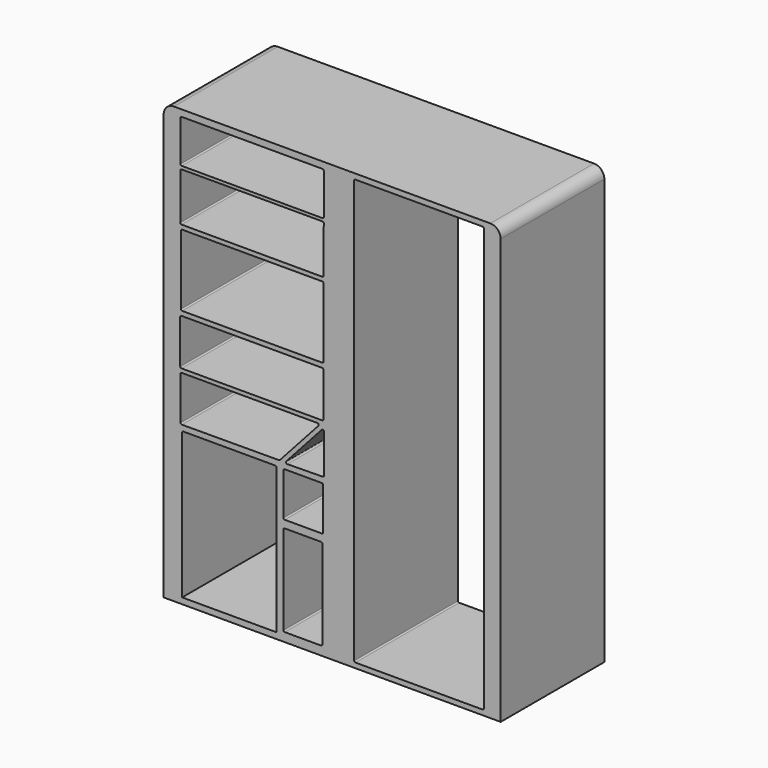
from build123d import *

# Parameters (mm, degrees)
F0_W     = 219.9670784175
F0_H     = 257.1922540665
F0_H_2   = 477.1593213081
F0_W_2   = 720.8151631057
F0_H_3   = 247.0399104059
F0_H_4   = 372.2520321608
F1_DEPTH = 635


with BuildPart() as f1:
    # F0 (on Front) → F1 (new body)
    with BuildSketch(Plane.XZ):
        with BuildLine():
            Line((-825.5, -1066.8), (825.5, -1066.8))
            Line((825.5, -1066.8), (825.5, 1016))
            ThreePointArc((825.5, 1016), (810.6210244843, 1051.9210244843), (774.7, 1066.8))
            Line((774.7, 1066.8), (-774.7, 1066.8))
            ThreePointArc((-774.7, 1066.8), (-810.6210244843, 1051.9210244843), (-825.5, 1016))
            Line((-825.5, 1016), (-825.5, -1066.8))
        make_face()
        with BuildLine():
            ThreePointArc((107.7734987259, 1034.2634128571), (109.6333706654, 1038.7535409176), (114.1234987259, 1040.6134128571))
            Line((114.1234987259, 1040.6134128571), (736.4234987259, 1040.6134128571))
            ThreePointArc((736.4234987259, 1040.6134128571), (740.9136267864, 1038.7535409176), (742.7734987259, 1034.2634128571))
            Line((742.7734987259, 1034.2634128571), (742.7734987259, -1035.8365871429))
            ThreePointArc((742.7734987259, -1035.8365871429), (740.9136267864, -1040.3267152035), (736.4234987259, -1042.1865871429))
            Line((736.4234987259, -1042.1865871429), (114.1234987259, -1042.1865871429))
            ThreePointArc((114.1234987259, -1042.1865871429), (109.6333706654, -1040.3267152035), (107.7734987259, -1035.8365871429))
            Line((107.7734987259, -1035.8365871429), (107.7734987259, 1034.2634128571))
        make_face(mode=Mode.SUBTRACT)
        Polygon((-787.4, -1037.2292995453), (-787.4, 1045.5707004547), (-752.9641985893, 1045.5707004547), (-32.1490354836, 1045.5707004547), (0, 1045.5707004547), (0, -1037.2292995453), (-32.1490354836, -1037.2292995453), (-252.1161139011, -1037.2292995453), (-272.5006639957, -1037.2292995453), (-734.9091768265, -1037.2292995453), (-752.9641985893, -1037.2292995453), align=None, mode=Mode.SUBTRACT)
        Polygon((-752.9641985893, 1045.5707004547), (-787.4, 1045.5707004547), (-787.4, -1037.2292995453), (-752.9641985893, -1037.2292995453), (-752.9641985893, -302.8777241707), (-752.9641985893, -59.2219047248), (-752.9641985893, 187.818005681), (-752.9641985893, 560.0700378418), (-752.9641985893, 593.9111113548), (-752.9641985893, 780.0370454788), (-752.9641985893, 813.8781785965), (-752.9641985893, 854.4874191284), (-752.9641985893, 1016.9246196747), align=None)
        with BuildLine():
            Line((-752.9641985893, -302.8777241707), (-752.9641985893, -1037.2292995453))
            Line((-752.9641985893, -1037.2292995453), (-734.9091768265, -1037.2292995453))
            Line((-734.9091768265, -1037.2292995453), (-734.9091768265, -326.3940406799))
            ThreePointArc((-734.9091768265, -326.3940406799), (-733.049304887, -321.9039126194), (-728.5591768265, -320.0440406799))
            Line((-728.5591768265, -320.0440406799), (-278.8506639957, -320.0440406799))
            ThreePointArc((-278.8506639957, -320.0440406799), (-274.3605359352, -321.9039126194), (-272.5006639957, -326.3940406799))
            Line((-272.5006639957, -326.3940406799), (-272.5006639957, -1037.2292995453))
            Line((-272.5006639957, -1037.2292995453), (-252.1161139011, -1037.2292995453))
            Line((-252.1161139011, -1037.2292995453), (-252.1161139011, -560.0699782372))
            Line((-252.1161139011, -560.0699782372), (-252.1161139011, -302.8777241707))
            Line((-252.1161139011, -302.8777241707), (-752.9641985893, -302.8777241707))
        make_face()
        with Locations((-142.1325746924, -431.4738512039)):
            Rectangle(F0_W, F0_H)
        with BuildLine():
            ThreePointArc((-238.722667098, -327.5587750435), (-236.8627951586, -323.068646983), (-232.372667098, -321.2087750435))
            Line((-232.372667098, -321.2087750435), (-50.5582434893, -321.2087750435))
            ThreePointArc((-50.5582434893, -321.2087750435), (-46.0681154287, -323.068646983), (-44.2082434893, -327.5587750435))
            Line((-44.2082434893, -327.5587750435), (-44.2082434893, -532.6683329582))
            ThreePointArc((-44.2082434893, -532.6683329582), (-46.0681154287, -537.1584610188), (-50.5582434893, -539.0183329582))
            Line((-50.5582434893, -539.0183329582), (-232.372667098, -539.0183329582))
            ThreePointArc((-232.372667098, -539.0183329582), (-236.8627951586, -537.1584610188), (-238.722667098, -532.6683329582))
            Line((-238.722667098, -532.6683329582), (-238.722667098, -327.5587750435))
        make_face(mode=Mode.SUBTRACT)
        with Locations((-142.1325746924, -798.6496388912)):
            Rectangle(F0_W, F0_H_2)
        with BuildLine():
            ThreePointArc((-238.722667098, -582.6405478477), (-236.8627951586, -578.1504197872), (-232.372667098, -576.2905478477))
            Line((-232.372667098, -576.2905478477), (-54.0525136352, -576.2905478477))
            ThreePointArc((-54.0525136352, -576.2905478477), (-49.5623855746, -578.1504197872), (-47.7025136352, -582.6405478477))
            Line((-47.7025136352, -582.6405478477), (-47.7025136352, -1017.207305336))
            ThreePointArc((-47.7025136352, -1017.207305336), (-49.5623855746, -1021.6974333965), (-54.0525136352, -1023.557305336))
            Line((-54.0525136352, -1023.557305336), (-232.372667098, -1023.557305336))
            ThreePointArc((-232.372667098, -1023.557305336), (-236.8627951586, -1021.6974333965), (-238.722667098, -1017.207305336))
            Line((-238.722667098, -1017.207305336), (-238.722667098, -582.6405478477))
        make_face(mode=Mode.SUBTRACT)
        Polygon((-752.9641985893, -59.2219047248), (-752.9641985893, -302.8777241707), (-252.1161139011, -302.8777241707), (-32.1490354836, -59.2219047248), align=None)
        with BuildLine():
            Line((-742.5824999809, -286.2870691341), (-742.5824999809, -75.7915718317))
            ThreePointArc((-742.5824999809, -75.7915718317), (-740.7226280415, -71.3014437712), (-736.2324999809, -69.4415718317))
            Line((-736.2324999809, -69.4415718317), (-71.9638137919, -69.4415718317))
            ThreePointArc((-71.9638137919, -69.4415718317), (-66.1611104022, -73.2125926982), (-67.2504119148, -80.0467266755))
            Line((-67.2504119148, -80.0467266755), (-255.8638893667, -288.972406544))
            ThreePointArc((-255.8638893667, -288.972406544), (-257.9887402532, -290.5156914705), (-260.5563342855, -291.0672171179))
            Line((-260.5563342855, -291.0672171179), (-736.2115430225, -292.6370345518))
            ThreePointArc((-736.2115430225, -292.6370345518), (-740.7152125143, -290.7846004951), (-742.5824999809, -286.2870691341))
        make_face(mode=Mode.SUBTRACT)
        Polygon((-32.1490354836, -59.2219047248), (-252.1161139011, -302.8777241707), (-32.1490354836, -302.8777241707), align=None)
        with BuildLine():
            ThreePointArc((-51.193972408, -92.0971805627), (-44.2010532487, -90.4255908565), (-40.1305705309, -96.3523354064))
            Line((-40.1305705309, -96.3523354064), (-40.1305705309, -286.3372953238))
            ThreePointArc((-40.1305705309, -286.3372953238), (-41.9621154253, -290.7989164932), (-46.4001968172, -292.6867866472))
            Line((-46.4001968172, -292.6867866472), (-219.8970689913, -294.882960675))
            ThreePointArc((-219.8970689913, -294.882960675), (-225.7637081305, -291.149120786), (-224.6908445822, -284.2783145078))
            Line((-224.6908445822, -284.2783145078), (-51.193972408, -92.0971805627))
        make_face(mode=Mode.SUBTRACT)
        with Locations((-392.5566170365, 64.2980504781)):
            Rectangle(F0_W_2, F0_H_3)
        with BuildLine():
            ThreePointArc((-744.1825866699, 169.5563005447), (-742.3227147305, 174.0464286053), (-737.8325866699, 175.9063005447))
            Line((-737.8325866699, 175.9063005447), (-48.8807489932, 175.9063005447))
            ThreePointArc((-48.8807489932, 175.9063005447), (-44.3906209326, 174.0464286053), (-42.5307489932, 169.5563005447))
            Line((-42.5307489932, 169.5563005447), (-42.5307489932, -44.1604325712))
            ThreePointArc((-42.5307489932, -44.1604325712), (-44.3906209326, -48.6505606317), (-48.8807489932, -50.5104325712))
            Line((-48.8807489932, -50.5104325712), (-737.8325866699, -50.5104325712))
            ThreePointArc((-737.8325866699, -50.5104325712), (-742.3227147305, -48.6505606317), (-744.1825866699, -44.1604325712))
            Line((-744.1825866699, -44.1604325712), (-744.1825866699, 169.5563005447))
        make_face(mode=Mode.SUBTRACT)
        with Locations((-392.5566170365, 373.9440217614)):
            Rectangle(F0_W_2, F0_H_4)
        with BuildLine():
            ThreePointArc((-740.9823536873, 542.4069570541), (-739.1224817478, 546.8970851147), (-734.6323536873, 548.7569570541))
            Line((-734.6323536873, 548.7569570541), (-48.8807489932, 548.7569570541))
            ThreePointArc((-48.8807489932, 548.7569570541), (-44.3906209326, 546.8970851147), (-42.5307489932, 542.4069570541))
            Line((-42.5307489932, 542.4069570541), (-42.5307489932, 204.6810580254))
            ThreePointArc((-42.5307489932, 204.6810580254), (-44.3906209326, 200.1909299648), (-48.8807489932, 198.3310580254))
            Line((-48.8807489932, 198.3310580254), (-734.6323536873, 198.3310580254))
            ThreePointArc((-734.6323536873, 198.3310580254), (-739.1224817478, 200.1909299648), (-740.9823536873, 204.6810580254))
            Line((-740.9823536873, 204.6810580254), (-740.9823536873, 542.4069570541))
        make_face(mode=Mode.SUBTRACT)
        Polygon((-32.1490354836, 560.0700378418), (-32.1490354836, 813.8781785965), (-752.9641985893, 813.8781785965), (-752.9641985893, 780.0370454788), (-752.9641985893, 593.9111113548), (-752.9641985893, 560.0700378418), align=None)
        with BuildLine():
            ThreePointArc((-47.4694770129, 807.8971505165), (-42.973452712, 806.0313745838), (-41.1194989413, 801.5304624804))
            Line((-41.1194989413, 801.5304624804), (-41.7140275426, 575.3059049754))
            ThreePointArc((-41.7140275426, 575.3059049754), (-43.582342696, 570.8240157377), (-48.0712380826, 568.9725971303))
            Line((-48.0712380826, 568.9725971303), (-737.8147173414, 569.7581957444))
            ThreePointArc((-737.8147173414, 569.7581957444), (-742.3090228527, 571.6295025522), (-744.1574353417, 576.1332723586))
            Line((-744.1574353417, 576.1332723586), (-743.2670072413, 801.5722312495))
            ThreePointArc((-743.2670072413, 801.5722312495), (-741.3983086815, 806.0461372166), (-736.9170567725, 807.8971505165))
            Line((-736.9170567725, 807.8971505165), (-47.4694770129, 807.8971505165))
        make_face(mode=Mode.SUBTRACT)
        Polygon((0, 1045.5707004547), (-32.1490354836, 1045.5707004547), (-32.1490354836, 813.8781785965), (-32.1490354836, 560.0700378418), (-32.1490354836, 187.818005681), (-32.1490354836, -59.2219047248), (-32.1490354836, -302.8777241707), (-32.1490354836, -560.0699782372), (-32.1490354836, -1037.2292995453), (0, -1037.2292995453), align=None)
        Polygon((-32.1490354836, 1045.5707004547), (-752.9641985893, 1045.5707004547), (-752.9641985893, 1016.9246196747), (-752.9641985893, 854.4874191284), (-752.9641985893, 813.8781785965), (-32.1490354836, 813.8781785965), align=None)
        with BuildLine():
            ThreePointArc((-47.2806287766, 1034.4494581223), (-42.790500716, 1032.5895861828), (-40.9306287766, 1028.0994581223))
            Line((-40.9306287766, 1028.0994581223), (-40.9306287766, 828.4766413002))
            ThreePointArc((-40.9306287766, 828.4766413002), (-42.7940868309, 823.9829299867), (-47.2907677906, 822.1266493947))
            Line((-47.2907677906, 822.1266493947), (-736.7300261753, 823.2274751043))
            ThreePointArc((-736.7300261753, 823.2274751043), (-741.2135984748, 825.0909250641), (-743.0698871613, 829.5774670098))
            Line((-743.0698871613, 829.5774670098), (-743.0698871613, 1028.0994581223))
            ThreePointArc((-743.0698871613, 1028.0994581223), (-741.2100152218, 1032.5895861828), (-736.7198871613, 1034.4494581223))
            Line((-736.7198871613, 1034.4494581223), (-47.2806287766, 1034.4494581223))
        make_face(mode=Mode.SUBTRACT)
    extrude(amount=F1_DEPTH)


solid = f1.part
